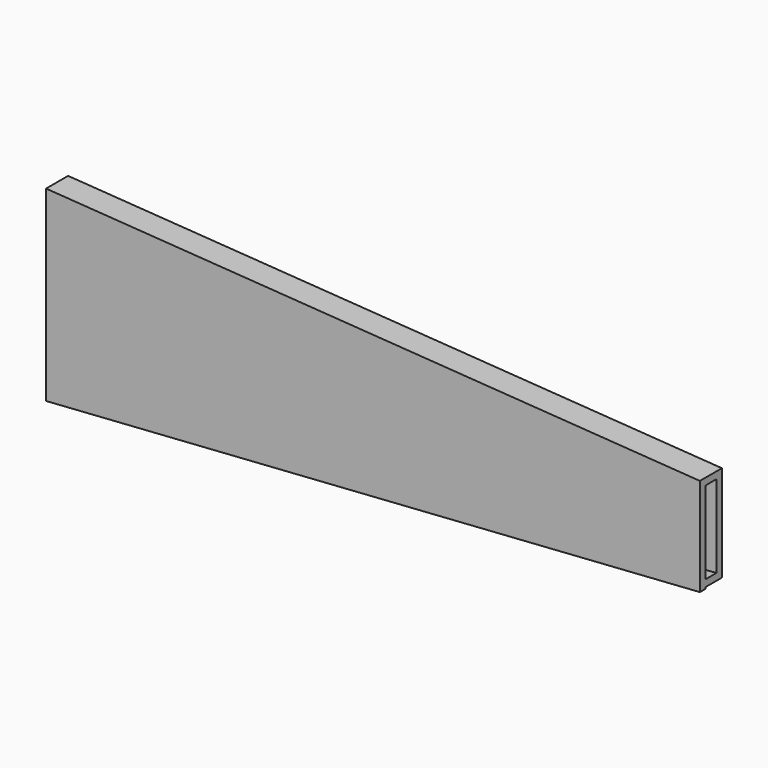
from build123d import *

# Parameters (mm, degrees)
F1_DEPTH = 1
F3_DEPTH = 2
F5_DEPTH = 1


with BuildPart() as f1:
    # F0 (on Front) → F1 (new body)
    with BuildSketch(Plane.XZ):
        Polygon((47.37426, 8.919068), (-47.62574, 15.419068), (-47.62574, -11.580932), (47.37426, -5.080932), align=None)
    extrude(amount=F1_DEPTH)

    # F2 (on face) → F3 (join)
    with BuildSketch(Plane.XZ.offset(1)):
        Polygon((47.37426, 8.919068), (-47.62574, 15.419068), (-47.62574, 14.419068), (47.37426, 7.919068), align=None)
        Polygon((-47.62574, -10.580932), (-47.62574, -11.580932), (47.37426, -5.080932), (47.37426, -4.080932), align=None)
    extrude(amount=F3_DEPTH)

    # F4 (on face) → F5 (join)
    with BuildSketch(Plane.XZ.offset(3)):
        Polygon((47.37426, 8.919068), (-47.62574, 15.419068), (-47.62574, -11.753376), (47.37426, -5.31239), align=None)
    extrude(amount=F5_DEPTH)


solid = f1.part
